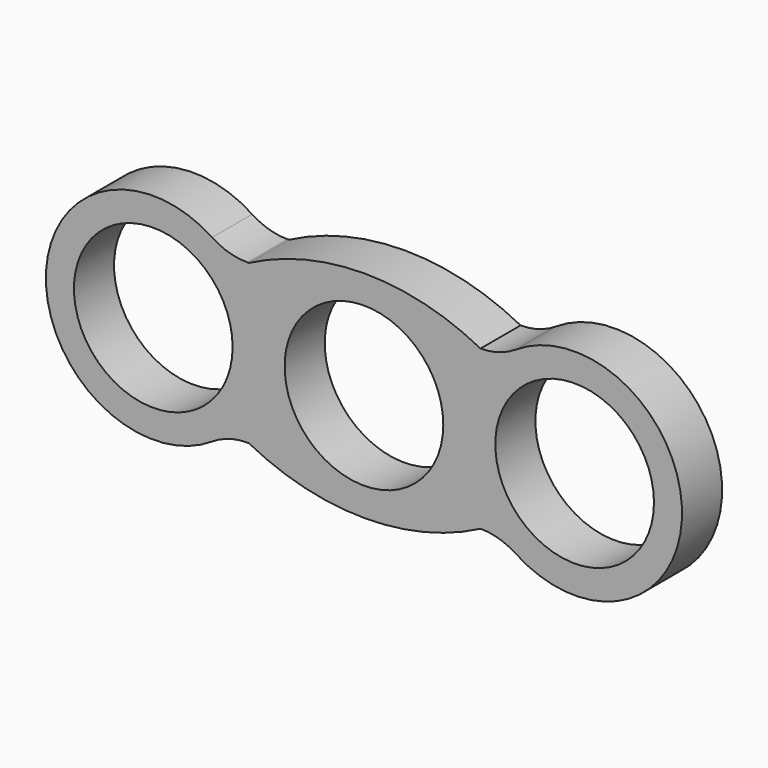
from build123d import *

# Parameters (mm, degrees)
F0_R     = 11.08
F1_DEPTH = 7


with BuildPart() as f1:
    # F0 (on Front) → F1 (new body)
    with BuildSketch(Plane.XZ):
        with BuildLine():
            ThreePointArc((16.28, 11.08), (0.1, 15.044414), (-16.08, 11.08))
            Line((-16.08, 11.08), (-16.28, 11.08))
            ThreePointArc((-16.28, 11.08), (-18.851964, 11.455326), (-21.209412, 12.55))
            ThreePointArc((-21.209412, 12.55), (-44.425098, 0), (-21.209412, -12.55))
            ThreePointArc((-21.209412, -12.55), (-18.851964, -11.455326), (-16.28, -11.08))
            Line((-16.28, -11.08), (-16.08, -11.08))
            ThreePointArc((-16.08, -11.08), (0.1, -15.044414), (16.28, -11.08))
            ThreePointArc((16.28, -11.08), (18.851964, -11.455326), (21.209412, -12.55))
            ThreePointArc((21.209412, -12.55), (44.425098, 0), (21.209412, 12.55))
            ThreePointArc((21.209412, 12.55), (18.851964, 11.455326), (16.28, 11.08))
        make_face()
        with Locations((-29.425098, 0)):
            Circle(F0_R, mode=Mode.SUBTRACT)
        Circle(F0_R, mode=Mode.SUBTRACT)
        with Locations((29.425098, 0)):
            Circle(F0_R, mode=Mode.SUBTRACT)
    extrude(amount=F1_DEPTH)


solid = f1.part
